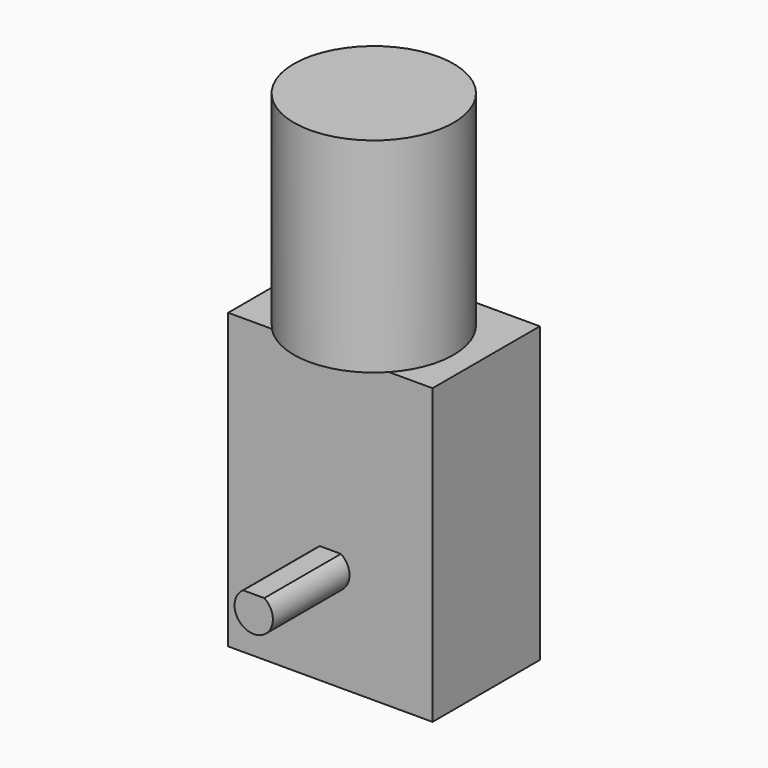
from build123d import *

# Parameters (mm, degrees)
SKETCH105_W             = 46
SKETCH105_H             = 32
PAD067_DEPTH            = 21
SKETCH106_R             = 12.5
PAD068_DEPTH            = 32
PAD069_DEPTH            = 15
PAD070_DEPTH            = 15
BODY054_PITCH_ANGLE     = -90
BODY054_PLACEMENT_ANGLE = 90


with BuildPart() as part:
    # Sketch105 → Pad067 (new body)
    with BuildSketch(Plane.XY):
        with Locations((7, 0)):
            Rectangle(SKETCH105_W, SKETCH105_H)
    extrude(amount=PAD067_DEPTH)

    # Sketch106 (on Face2 of Pad067) → Pad068 (join)
    with BuildSketch(Plane.YZ.offset(30)):
        with Locations((0, 12.5)):
            Circle(SKETCH106_R)
    extrude(amount=PAD068_DEPTH)

    # Sketch107 (on Face4 of Pad068) → Pad069 (join)
    with BuildSketch(Plane(origin=(0, 0, 0), x_dir=(1, 0, 0), z_dir=(0, 0, -1))):
        with BuildLine():
            ThreePointArc((2.5, 1.658312), (-3, 0), (2.5, -1.658312))
            Line((2.5, 1.658312), (2.5, -1.658312))
        make_face()
    extrude(amount=PAD069_DEPTH)

    # Sketch108 (on Face5 of Pad069) → Pad070 (join)
    with BuildSketch(Plane.XY.offset(21)):
        with BuildLine():
            ThreePointArc((2.5, 1.658312), (-3, 0), (2.5, -1.658312))
            Line((2.5, 1.658312), (2.5, -1.658312))
        make_face()
    extrude(amount=PAD070_DEPTH)


with BuildPart() as part_1:
    # Body054 pitch: moved
    add(part.part.rotate(Axis((0, 0, 0), (0, 1, 0)), BODY054_PITCH_ANGLE))


with BuildPart() as part_2:
    # Body054 placement: moved
    add(part_1.part.moved(Location((0, -24, 0))).rotate(Axis((0, -24, 0), (0, 0, 1)), BODY054_PLACEMENT_ANGLE))


solid = part_2.part
